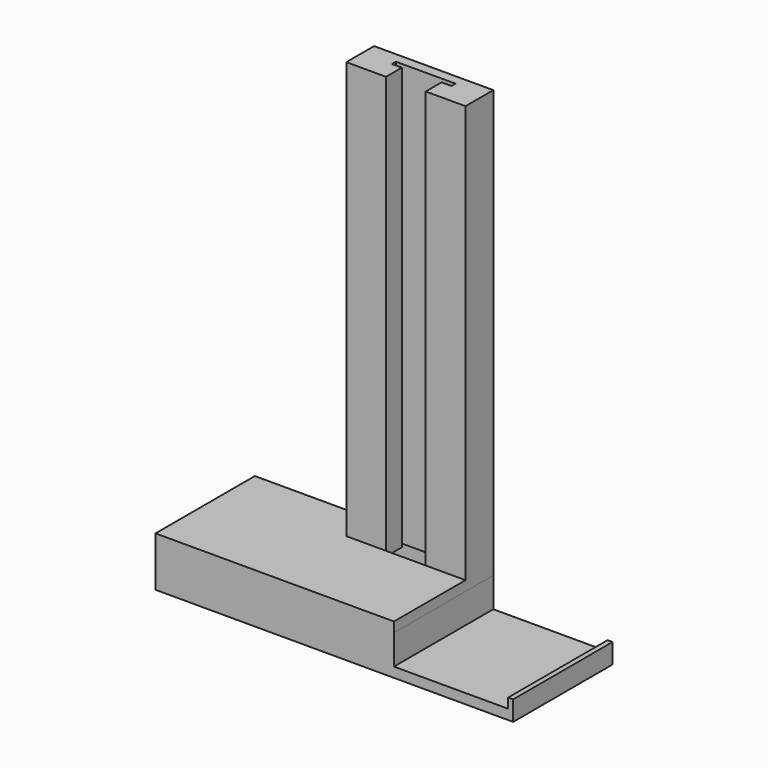
from build123d import *

# Parameters (mm, degrees)
F0_W      = 38.1
F0_H      = 6.35
F1_DEPTH  = 546.1
F3_DEPTH  = 12.7
F4_W      = 152.376732
F4_H      = 158.75
F5_DEPTH  = 50.8
F6_W      = 158.75
F6_H      = 12.7
F7_DEPTH  = 152.4
F8_W      = 6.35
F8_H      = 158.75
F9_DEPTH  = 12.7
F11_DEPTH = 152.4
F12_W     = 292.1
F12_H     = 44.45
F13_DEPTH = 139.7
F14_W     = 292.1
F14_H     = 44.45
F14_W_2   = 25.4
F14_H_2   = 12.7
F15_DEPTH = 6.35


with BuildPart() as f1:
    # F0 (on Top) → F1 (new body)
    with BuildSketch(Plane.XY):
        Polygon((-59.489019, 112.964728), (-59.489019, 100.264728), (-21.389019, 100.264728), (54.810981, 100.264728), (92.910981, 100.264728), (92.910981, 112.964728), align=None)
        with Locations((73.860981, 97.089728)):
            Rectangle(F0_W, F0_H)
        Polygon((92.910981, 93.914728), (54.810981, 93.914728), (42.110981, 93.914728), (42.110981, 68.514728), (92.910981, 68.514728), align=None)
        with Locations((-40.439019, 97.089728)):
            Rectangle(F0_W, F0_H)
        Polygon((-59.489019, 93.914728), (-59.489019, 68.514728), (-8.689019, 68.514728), (-8.689019, 93.914728), (-21.389019, 93.914728), align=None)
    extrude(amount=F1_DEPTH)

    # F2 (on face) → F3 (join)
    with BuildSketch(Plane(origin=(0, 0, 0), x_dir=(1, 0, 0), z_dir=(0, 0, -1))):
        Polygon((-59.489019, 45.785272), (-59.489019, -68.514728), (-8.689019, -68.514728), (42.110981, -68.514728), (92.910981, -68.514728), (92.910981, 45.785272), align=None)
    extrude(amount=-F3_DEPTH)

    # F4 (on face) → F5 (join)
    with BuildSketch(Plane(origin=(0, 0, 0), x_dir=(1, 0, 0), z_dir=(0, 0, -1))):
        with Locations((16.699347, -33.589728)):
            Rectangle(F4_W, F4_H)
    extrude(amount=F5_DEPTH)

    # F6 (on face) → F7 (join)
    with BuildSketch(Plane.YZ.offset(92.887713)):
        with Locations((33.589728, -44.45)):
            Rectangle(F6_W, F6_H)
    extrude(amount=F7_DEPTH)

    # F8 (on face) → F9 (join)
    with BuildSketch(Plane.XY.offset(-38.1)):
        with Locations((242.112713, 33.589728)):
            Rectangle(F8_W, F8_H)
    extrude(amount=F9_DEPTH)

    # F10 (on face) → F11 (join)
    with BuildSketch(Plane(origin=(-59.489019, 0, 0), x_dir=(0, -1, 0), z_dir=(-1, 0, 0))):
        Polygon((-112.964728, 12.7), (-112.964728, -50.8), (45.785272, -50.8), (45.785272, 12.7), (-68.514728, 12.7), align=None)
    extrude(amount=F11_DEPTH)

    # F12 (on face) → F13 (cut)
    with BuildSketch(Plane(origin=(0, 112.964728, 0), x_dir=(-1, 0, 0), z_dir=(0, 1, 0))):
        with Locations((59.489019, -15.875)):
            Rectangle(F12_W, F12_H)
    extrude(amount=-F13_DEPTH, mode=Mode.SUBTRACT)

    # F14 (on face) → F15 (join)
    with BuildSketch(Plane(origin=(0, 112.964728, 0), x_dir=(-1, 0, 0), z_dir=(0, 1, 0))):
        with Locations((59.489019, -15.875)):
            Rectangle(F14_W, F14_H)
        with Locations((59.489019, -15.875)):
            Rectangle(F14_W_2, F14_H_2, mode=Mode.SUBTRACT)
    extrude(amount=-F15_DEPTH)


solid = f1.part
